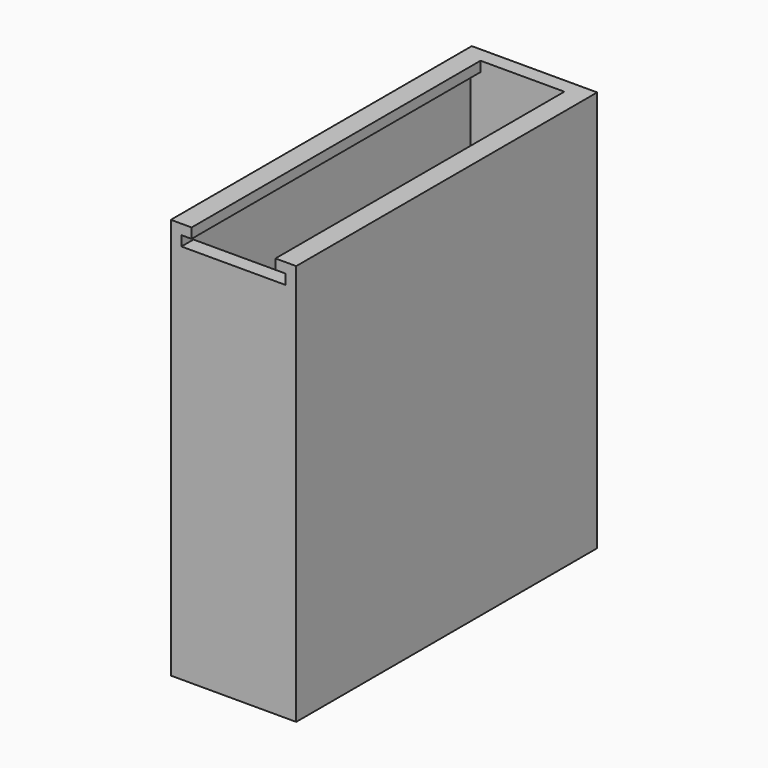
from build123d import *

# Parameters (mm, degrees)
F0_W     = 25
F0_H     = 80
F1_DEPTH = 37.5
F3_DEPTH = 72
F4_W     = 20.765108
F4_H     = 69
F5_DEPTH = 73


with BuildPart() as f1:
    # F0 (on Front) → F1 (new body, symmetric)
    with BuildSketch(Plane.XZ):
        Rectangle(F0_W, F0_H)
    extrude(amount=F1_DEPTH, both=True)

    # F2 (on face) → F3 (cut)
    with BuildSketch(Plane.XZ.offset(37.5)):
        Polygon((8.357823, 38), (8.357823, 40), (0, 40), (-8.357823, 40), (-8.357823, 38), (-10.382554, 38), (-10.382554, 36), (0, 36), (10.382554, 36), (10.382554, 38), align=None)
    extrude(amount=-F3_DEPTH, mode=Mode.SUBTRACT)

    # F4 (on face) → F5 (cut)
    with BuildSketch(Plane.XY.offset(36)):
        Rectangle(F4_W, F4_H)
    extrude(amount=-F5_DEPTH, mode=Mode.SUBTRACT)


solid = f1.part
